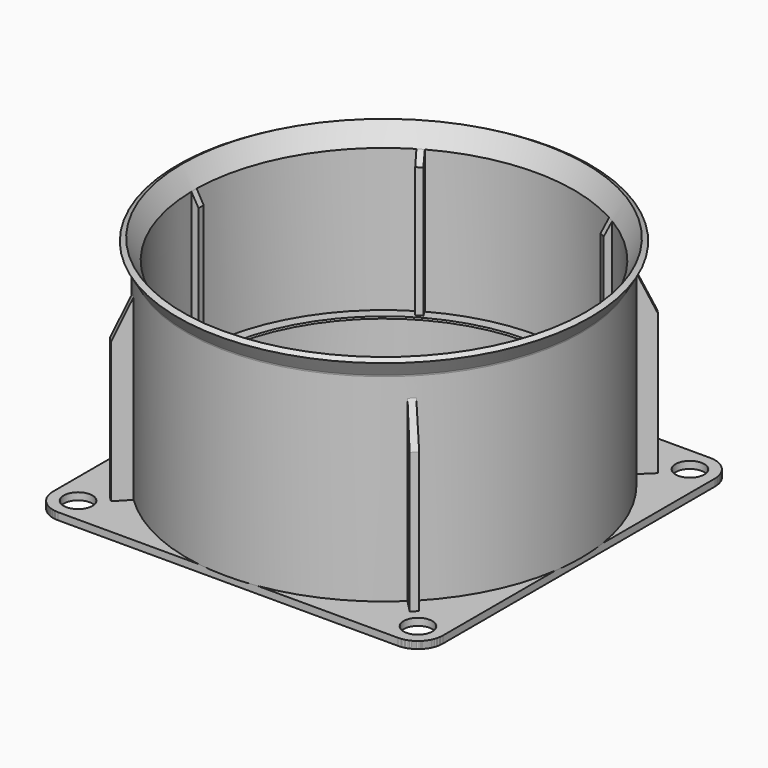
from build123d import *

# Parameters (mm, degrees)
PAD_DEPTH                         = 2
REVOLUTION001_ANGLE               = -1
PAD_MIRRORED_2_DEPTH              = 2
REVOLUTION001_MIRRORED_2_ANGLE    = 1
POLARPATTERN_COUNT                = 4
REVOLUTION002_ANGLE               = -1
REVOLUTION002_MIRRORED001_2_ANGLE = 1
POLARPATTERN001_COUNT             = 6
SKETCH006_R                       = 4.2
PAD001_DEPTH                      = 2
SKETCH006_MIRRORED002_2_R         = 4.2
PAD001_MIRRORED002_2_DEPTH        = 2


with BuildPart() as body:
    # Sketch → Pad (new body)
    with BuildSketch(Plane.XY):
        with BuildLine():
            ThreePointArc((44.796573, 44.796573), (50.453427, 44.796573), (50.453427, 50.453427))
            Line((50.453427, 50.453427), (52.574747, 52.574747))
            ThreePointArc((54.625, 47.625), (54.092157, 50.303784), (52.574747, 52.574747))
            Line((54.625, 47.625), (54.625, 0))
            Line((50, 0), (54.625, 0))
            ThreePointArc((50, 0), (46.193977, 19.134172), (35.355339, 35.355339))
            Line((35.355339, 35.355339), (44.796573, 44.796573))
        make_face()
    pad = extrude(amount=-PAD_DEPTH)

    # Sketch001 → Revolution (revolve)
    with BuildSketch(Plane.XZ):
        with BuildLine():
            Line((50, 0), (50, 15))
            Line((50, 15), (50.290344, 15.43382))
            Line((50.290344, 15.43382), (53.25, 15.43382))
            Line((53.25, 15.43382), (53.25, 55.43382))
            Line((53.25, 55.43382), (56.43138, 60.944132))
            Line((57.817021, 60.144132), (56.43138, 60.944132))
            Line((55.370257, 55.906213), (57.817021, 60.144132))
            ThreePointArc((55.370257, 55.906213), (55.280585, 55.689723), (55.25, 55.457401))
            Line((55.25, 55.457401), (55.25, 0))
            Line((55.25, 0), (50, 0))
        make_face()
    revolve(axis=Axis((0, 0, 0), (0, 0, 1)))

    # Sketch002 (on Face3 of Revolution) → Revolution001 (revolve)
    with BuildSketch(Plane(origin=(0, 0, 0), x_dir=(-0.707107, -0.707107, 0), z_dir=(-0.707107, 0.707107, 0))):
        Polygon((-55.25, 0), (-55.25, 50), (-60.25, 39.277465), (-60.25, 0), align=None)
    revolution001 = revolve(axis=Axis((0, 0, 0), (0, 0, 1)), revolution_arc=REVOLUTION001_ANGLE)

    # Sketch Mirrored 2 → Pad Mirrored 2 (add)
    with BuildSketch(Plane(origin=(0, 0, 0), x_dir=(1, 0, 0), z_dir=(0, 0, -1))):
        with BuildLine():
            ThreePointArc((44.796573, 44.796573), (50.453427, 44.796573), (50.453427, 50.453427))
            Line((50.453427, 50.453427), (52.574747, 52.574747))
            ThreePointArc((54.625, 47.625), (54.092157, 50.303784), (52.574747, 52.574747))
            Line((54.625, 47.625), (54.625, 0))
            Line((50, 0), (54.625, 0))
            ThreePointArc((50, 0), (46.193977, 19.134172), (35.355339, 35.355339))
            Line((35.355339, 35.355339), (44.796573, 44.796573))
        make_face()
    pad_mirrored_2 = extrude(amount=PAD_MIRRORED_2_DEPTH)

    # Sketch002 Mirrored 2 → Revolution001 Mirrored 2 (revolve)
    with BuildSketch(Plane(origin=(0, 0, 0), x_dir=(-0.707107, 0.707107, 0), z_dir=(0.707107, 0.707107, 0))):
        Polygon((-55.25, 0), (-55.25, 50), (-60.25, 39.277465), (-60.25, 0), align=None)
    revolution001_mirrored_2 = revolve(axis=Axis((0, 0, 0), (0, 0, 1)), revolution_arc=REVOLUTION001_MIRRORED_2_ANGLE)

    # PolarPattern: Pad, Revolution001, Pad Mirrored 2, Revolution001 Mirrored 2 ×4 about axis
    polarpattern_axis = Axis((0, 0, 0), (0, 0, 1))
    for i in range(1, POLARPATTERN_COUNT):
        add(pad.rotate(polarpattern_axis, i * 360 / POLARPATTERN_COUNT))
        add(revolution001.rotate(polarpattern_axis, i * 360 / POLARPATTERN_COUNT))
        add(pad_mirrored_2.rotate(polarpattern_axis, i * 360 / POLARPATTERN_COUNT))
        add(revolution001_mirrored_2.rotate(polarpattern_axis, i * 360 / POLARPATTERN_COUNT))

    # Sketch005 → Revolution002 (revolve)
    with BuildSketch(Plane.XZ):
        Polygon((51.25, 15.43382), (51.25, 51.969719), (53.25, 55.43382), (53.25, 15.43382), align=None)
    revolution002 = revolve(axis=Axis((0, 0, 0), (0, 0, 1)), revolution_arc=REVOLUTION002_ANGLE)

    # Sketch005 Mirrored001 2 → Revolution002 Mirrored001 2 (revolve)
    with BuildSketch(Plane.XZ):
        Polygon((51.25, 15.43382), (51.25, 51.969719), (53.25, 55.43382), (53.25, 15.43382), align=None)
    revolution002_mirrored001_2 = revolve(axis=Axis((0, 0, 0), (0, 0, 1)), revolution_arc=REVOLUTION002_MIRRORED001_2_ANGLE)

    # PolarPattern001: Revolution002, Revolution002 Mirrored001 2 ×6 about axis
    polarpattern001_axis = Axis((0, 0, 0), (0, 0, 1))
    for i in range(1, POLARPATTERN001_COUNT):
        add(revolution002.rotate(polarpattern001_axis, i * 360 / POLARPATTERN001_COUNT))
        add(revolution002_mirrored001_2.rotate(polarpattern001_axis, i * 360 / POLARPATTERN001_COUNT))


with BuildPart() as body001:
    # Sketch006 → Pad001 (new body)
    with BuildSketch(Plane.XY):
        with BuildLine():
            Line((-40, 0), (-40, 30))
            ThreePointArc((-17.058722, 47), (-29.768682, 40.172448), (-40, 30))
            Line((0, 47), (-17.058722, 47))
            Line((0, 50), (0, 47))
            Line((0, 50), (0, 54.625))
            Line((-47.624978, 54.625), (0, 54.625))
            ThreePointArc((-47.624978, 54.625), (-52.574748, 52.574747), (-54.625, 47.624978))
            Line((-54.625, 47.624978), (-54.625, 0))
            Line((-54.625, 0), (-50, 0))
            Line((-40, 0), (-50, 0))
        make_face()
        with Locations((-47.625, 47.625)):
            Circle(SKETCH006_R, mode=Mode.SUBTRACT)
    pad001 = extrude(amount=-PAD001_DEPTH)

    # Sketch006 Mirrored002 2 → Pad001 Mirrored002 2 (add)
    with BuildSketch(Plane(origin=(0, 0, 0), x_dir=(-1, 0, 0), z_dir=(0, 0, -1))):
        with BuildLine():
            Line((-40, 0), (-40, 30))
            ThreePointArc((-17.058722, 47), (-29.768682, 40.172448), (-40, 30))
            Line((0, 47), (-17.058722, 47))
            Line((0, 50), (0, 47))
            Line((0, 50), (0, 54.625))
            Line((-47.624978, 54.625), (0, 54.625))
            ThreePointArc((-47.624978, 54.625), (-52.574748, 52.574747), (-54.625, 47.624978))
            Line((-54.625, 47.624978), (-54.625, 0))
            Line((-54.625, 0), (-50, 0))
            Line((-40, 0), (-50, 0))
        make_face()
        with Locations((-47.625, 47.625)):
            Circle(SKETCH006_MIRRORED002_2_R, mode=Mode.SUBTRACT)
    pad001_mirrored002_2 = extrude(amount=PAD001_MIRRORED002_2_DEPTH)

    # Mirrored003: Pad001, Pad001 Mirrored002 2 across Sketch006 H_Axis
    add(pad001.mirror(Plane.ZX))
    add(pad001_mirrored002_2.mirror(Plane.ZX))


solid = Compound([body.part, body001.part])
